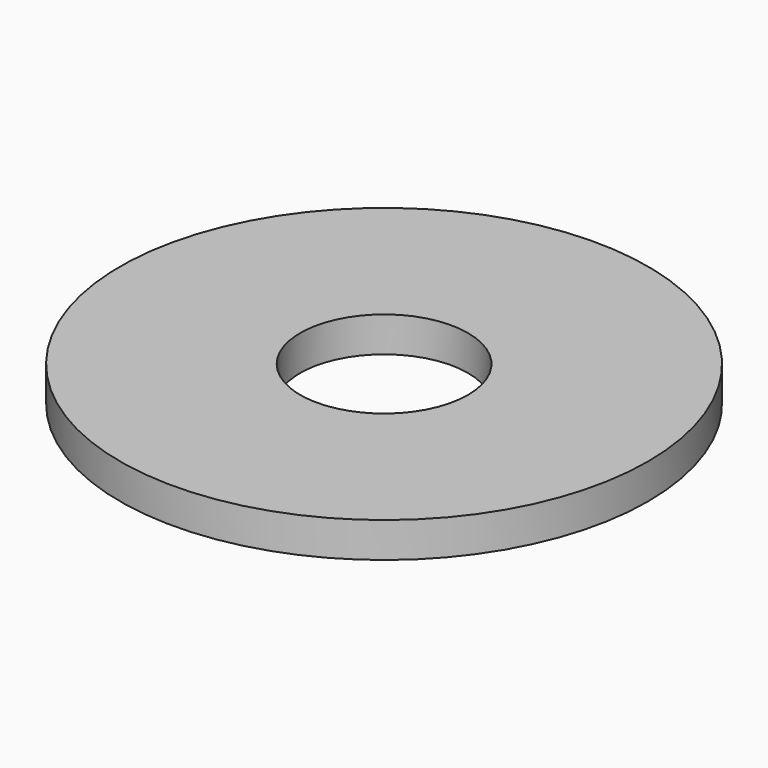
from build123d import *

# Parameters (mm, degrees)
SKETCH_R   = 45
SKETCH_R_2 = 14.3
PAD_DEPTH  = 6


with BuildPart() as part:
    # Sketch → Pad (new body)
    with BuildSketch(Plane.XY):
        Circle(SKETCH_R)
        Circle(SKETCH_R_2, mode=Mode.SUBTRACT)
    extrude(amount=PAD_DEPTH)


solid = part.part
